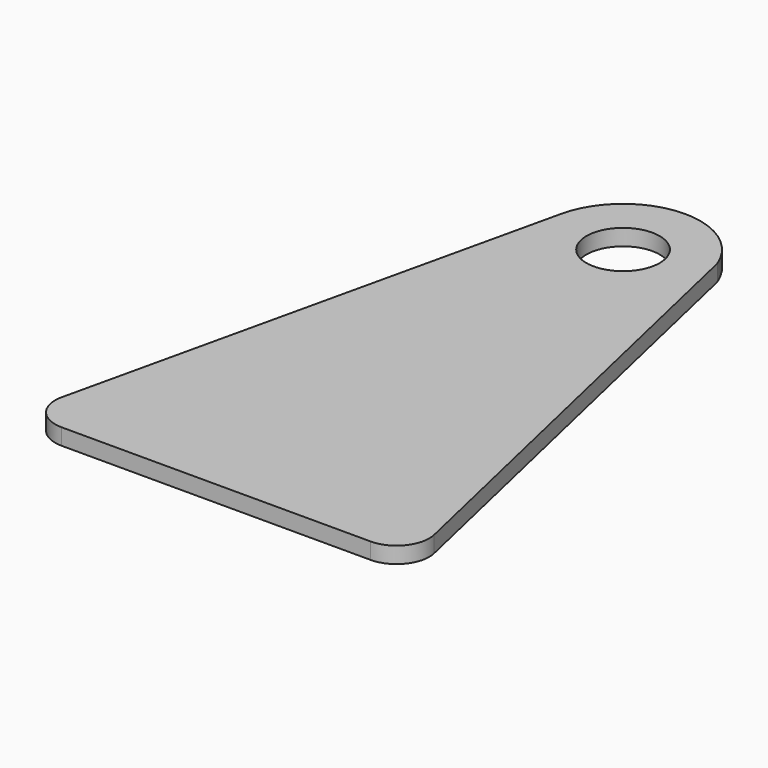
from build123d import *

# Parameters (mm, degrees)
F0_R     = 14.2875
F1_DEPTH = 6.35


with BuildPart() as f1:
    # F0 (on Top) → F1 (new body)
    with BuildSketch(Plane.XY):
        with BuildLine():
            ThreePointArc((-72.658973, -75.862842), (-70.205698, -86.606139), (-60.276993, -91.387123))
            Line((-60.276993, -91.387123), (60.254503, -91.387123))
            ThreePointArc((60.254503, -91.387123), (70.188653, -86.599307), (72.632586, -75.845809))
            Line((72.632586, -75.845809), (28.183001, 117.79723))
            ThreePointArc((28.183001, 117.79723), (-2.110314, 137.138963), (-29.407204, 113.758043))
            Line((-29.407204, 113.758043), (-72.658973, -75.862842))
        make_face()
        with Locations((0, 107.050377)):
            Circle(F0_R, mode=Mode.SUBTRACT)
    extrude(amount=F1_DEPTH)


solid = f1.part
